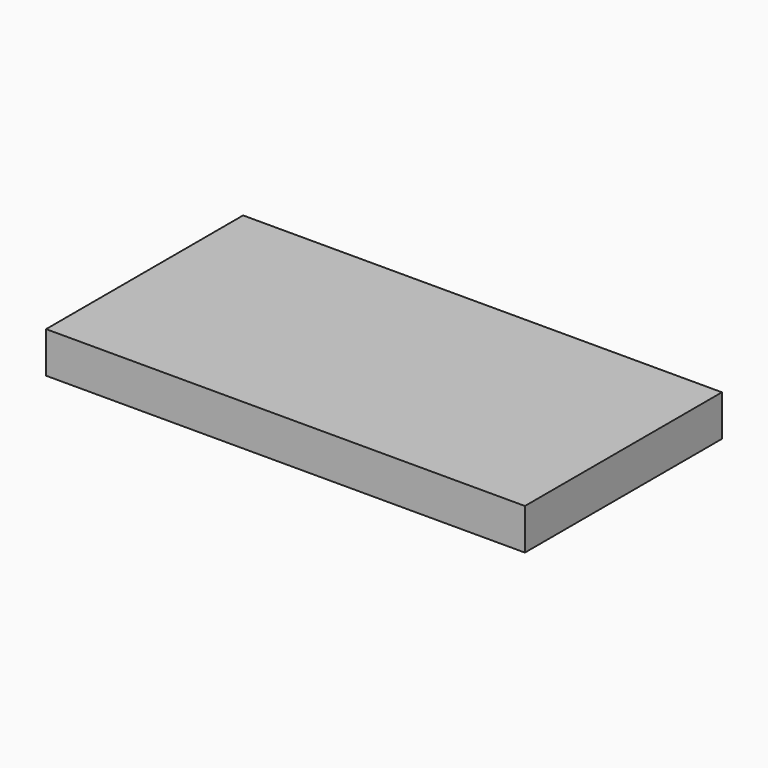
from build123d import *

# Parameters (mm, degrees)
SKETCH_W  = 35
SKETCH_H  = 18
PAD_DEPTH = 3


with BuildPart() as part:
    # Sketch → Pad (new body)
    with BuildSketch(Plane.XY):
        with Locations((17.5, 9)):
            Rectangle(SKETCH_W, SKETCH_H)
    extrude(amount=PAD_DEPTH)


solid = part.part
